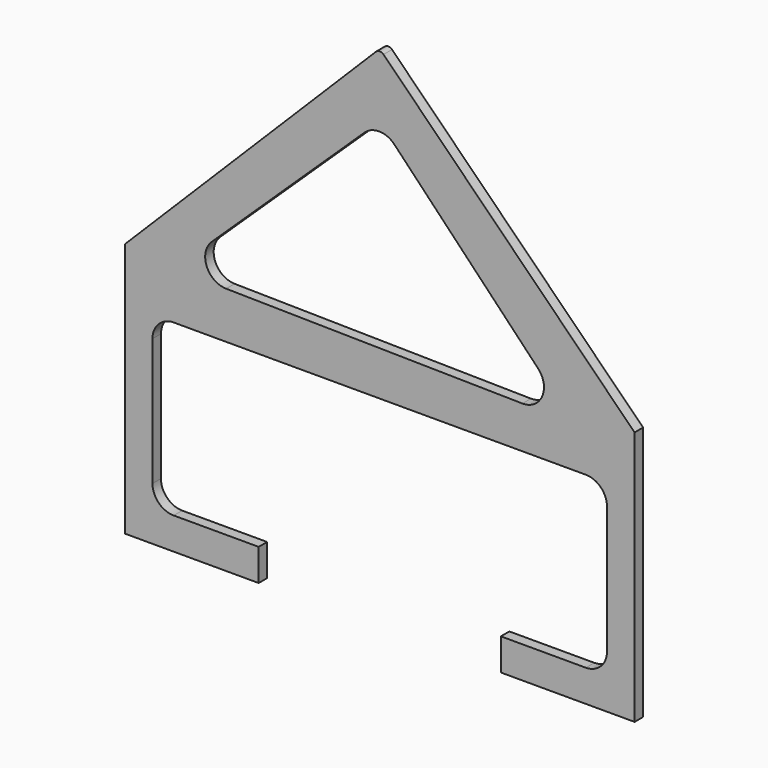
from build123d import *

# Parameters (mm, degrees)
F1_DEPTH = 12.7
F3_DEPTH = 12.701
F4_R     = 6.35
F5_R     = 25.4


with BuildPart() as f1:
    # F0 (on Front) → F1 (new body)
    with BuildSketch(Plane.XZ):
        Polygon((-304.8, 304.8), (-304.8, 0), (-144.824734, 0), (-144.824734, 38.1), (-271.824734, 38.1), (-271.824734, 241.3), (0, 241.3), (271.824734, 241.3), (271.824734, 38.1), (144.824734, 38.1), (144.824734, 0), (304.8, 0), (304.8, 304.8), (0, 609.6), align=None)
    extrude(amount=F1_DEPTH)

    # F2 (on Front) → F3 (cut, through all)
    with BuildSketch(Plane.XZ):
        Polygon((0, 532.894433), (-245.717928, 298.267931), (231.313556, 290.646062), align=None)
    extrude(amount=F3_DEPTH, mode=Mode.SUBTRACT)

    # F4
    f4_edges = [f1.edges().sort_by_distance(p)[0] for p in [
        (0, -6.35, 609.6),
    ]]
    fillet(f4_edges, radius=F4_R)

    # F5
    f5_edges = [f1.edges().sort_by_distance(p)[0] for p in [
        (-271.824734, -6.35, 38.1),
        (-271.824734, -6.35, 241.3),
        (271.824734, -6.35, 241.3),
        (271.824734, -6.35, 38.1),
        (-245.717928, -6.35, 298.267931),
        (231.313556, -6.35, 290.646062),
        (0, -6.35, 532.894433),
    ]]
    fillet(f5_edges, radius=F5_R)


solid = f1.part
